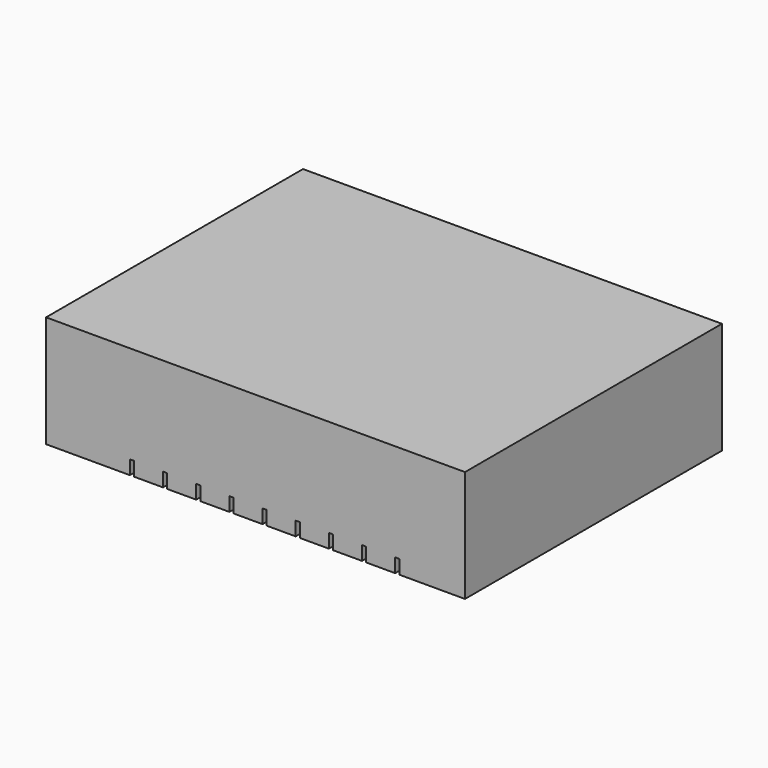
from build123d import *

# Parameters (mm, degrees)
SKETCH_W            = 30
SKETCH_H            = 23
PAD002_DEPTH        = 8
POCKET001_DEPTH     = 1.2
SKETCH002_W         = 0.3
SKETCH002_H         = 23
POCKET_DEPTH        = 1
LINEARPATTERN_COUNT = 9
LINEARPATTERN_PITCH = 2.375


with BuildPart() as part:
    # Sketch → Pad002 (new body)
    with BuildSketch(Plane.XY):
        with Locations((15, 11.5)):
            Rectangle(SKETCH_W, SKETCH_H)
    extrude(amount=PAD002_DEPTH)

    # Sketch001 → Pocket001 (cut)
    with BuildSketch(Plane.XY):
        with BuildLine():
            ThreePointArc((17.966363, 19.215428), (14.961232, 19.999875), (11.966488, 19.17666))
            Line((11.966488, 19.17666), (4.036475, 13.531422))
            ThreePointArc((4.036475, 13.531422), (3.750333, 12.536475), (4, 11.531754))
            Line((4, 11.531754), (12.33, 5.376817))
            ThreePointArc((12.33, 5.376817), (15.374304, 4.761687), (18.318313, 5.75112))
            Line((18.318313, 5.75112), (26, 11.531754))
            ThreePointArc((26, 11.531754), (26.249667, 12.536475), (25.963525, 13.531422))
            Line((25.963525, 13.531422), (17.966363, 19.215428))
        make_face()
    extrude(amount=POCKET001_DEPTH, mode=Mode.SUBTRACT)

    # Sketch002 → Pocket (cut)
    with BuildSketch(Plane.XY):
        with Locations((6.15, 11.5)):
            Rectangle(SKETCH002_W, SKETCH002_H)
    pocket = extrude(amount=POCKET_DEPTH, mode=Mode.SUBTRACT)

    # LinearPattern: Pocket ×9
    with Locations(*[(i * LINEARPATTERN_PITCH, 0, 0) for i in range(1, LINEARPATTERN_COUNT)]):
        add(pocket, mode=Mode.SUBTRACT)


solid = part.part
